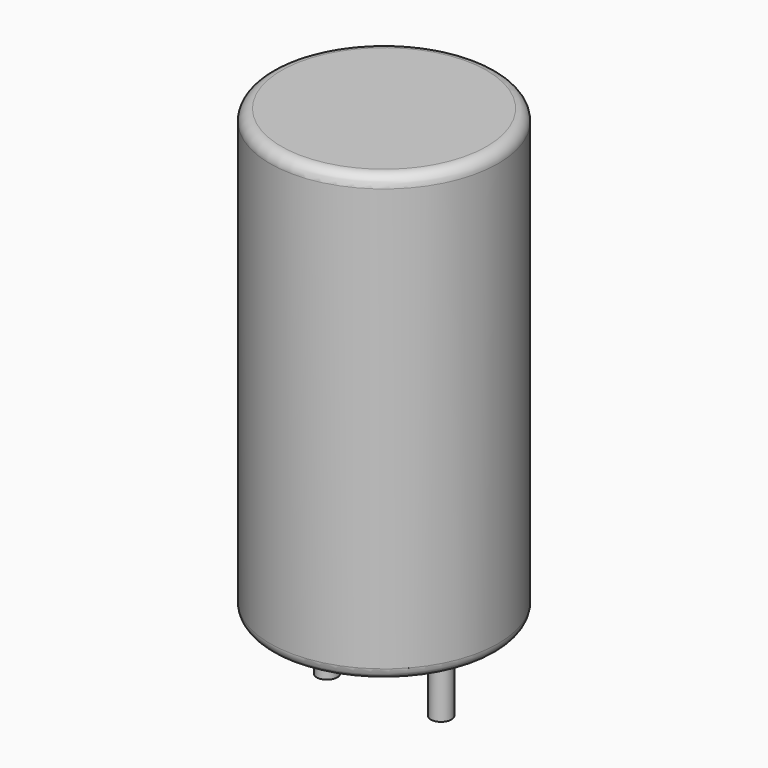
from build123d import *

# Parameters (mm, degrees)
SKETCH001_R       = 0.45
PAD001_DEPTH      = 9.75
PAD001_DEPTH_BACK = 3.5
SKETCH_R          = 5
PAD_DEPTH         = 19.5
FILLET_R          = 0.5


with BuildPart() as pad001:
    # Sketch001 → Pad001 (new body, two sides)
    with BuildSketch(Plane.XY.offset(0.5)) as pad001_sk:
        Circle(SKETCH001_R)
        with Locations((5, 0)):
            Circle(SKETCH001_R)
    extrude(amount=PAD001_DEPTH)
    extrude(pad001_sk.sketch, amount=-PAD001_DEPTH_BACK)


with BuildPart() as obj1:
    # Sketch → Pad (new body)
    with BuildSketch(Plane.XY.offset(0.1)):
        with Locations((2.5, 0)):
            Circle(SKETCH_R)
    extrude(amount=PAD_DEPTH)

    # Fillet
    fillet_edges = [obj1.edges().sort_by_distance(p)[0] for p in [
        (-2.5, 0, 0.1),
        (-2.5, 0, 19.6),
    ]]
    fillet(fillet_edges, radius=FILLET_R)

    # obj1: union Pad001
    add(pad001.part)


solid = obj1.part
